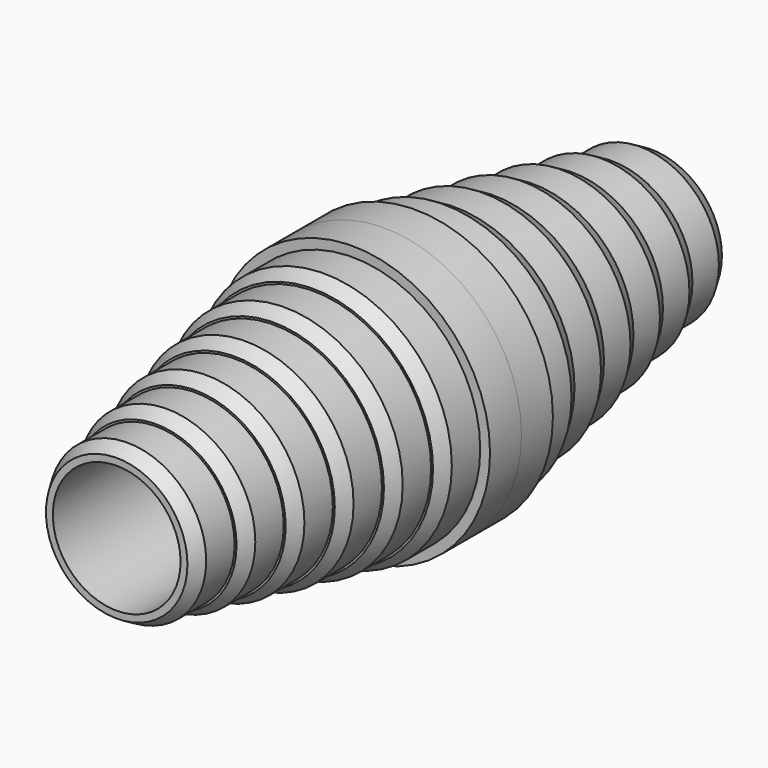
from build123d import *

# Parameters (mm, degrees)
F0_R        = 7
F0_R_2      = 6.5
F0_R_3      = 6
F0_R_4      = 5.5
F0_R_5      = 5
F0_R_6      = 4.5
F0_R_7      = 4
F1_DEPTH    = 2
F2_DEPTH    = 4.5
F3_DEPTH    = 7
F4_DEPTH    = 9.5
F5_DEPTH    = 12
F6_DEPTH    = 14.5
F7_DEPTH    = 17
F8_R        = 3.25
F9_DEPTH    = 17
F10_SIZE2   = 0.692820323
F10_SIZE    = 0.4
F10_2_SIZE2 = 0.692820323
F10_2_SIZE  = 0.4
F10_3_SIZE2 = 0.692820323
F10_3_SIZE  = 0.4
F10_4_SIZE2 = 0.692820323
F10_4_SIZE  = 0.4
F10_5_SIZE2 = 0.692820323
F10_5_SIZE  = 0.4
F10_6_SIZE2 = 0.692820323
F10_6_SIZE  = 0.4


with BuildPart() as f1:
    # F0 (on Front) → F1 (new body)
    with BuildSketch(Plane.XZ):
        Circle(F0_R)
        Circle(F0_R_2, mode=Mode.SUBTRACT)
        Circle(F0_R_2)
        Circle(F0_R_3, mode=Mode.SUBTRACT)
        Circle(F0_R_3)
        Circle(F0_R_4, mode=Mode.SUBTRACT)
        Circle(F0_R_4)
        Circle(F0_R_5, mode=Mode.SUBTRACT)
        Circle(F0_R_5)
        Circle(F0_R_6, mode=Mode.SUBTRACT)
        Circle(F0_R_6)
        Circle(F0_R_7, mode=Mode.SUBTRACT)
        Circle(F0_R_7)
    extrude(amount=F1_DEPTH)

    # F0 (on Front) → F2 (join, through all)
    with BuildSketch(Plane.XZ):
        Circle(F0_R_2)
        Circle(F0_R_3, mode=Mode.SUBTRACT)
        Circle(F0_R_3)
        Circle(F0_R_4, mode=Mode.SUBTRACT)
        Circle(F0_R_4)
        Circle(F0_R_5, mode=Mode.SUBTRACT)
        Circle(F0_R_5)
        Circle(F0_R_6, mode=Mode.SUBTRACT)
        Circle(F0_R_6)
        Circle(F0_R_7, mode=Mode.SUBTRACT)
        Circle(F0_R_7)
    extrude(amount=F2_DEPTH)

    # F0 (on Front) → F3 (join, through all)
    with BuildSketch(Plane.XZ):
        Circle(F0_R_3)
        Circle(F0_R_4, mode=Mode.SUBTRACT)
        Circle(F0_R_4)
        Circle(F0_R_5, mode=Mode.SUBTRACT)
        Circle(F0_R_5)
        Circle(F0_R_6, mode=Mode.SUBTRACT)
        Circle(F0_R_6)
        Circle(F0_R_7, mode=Mode.SUBTRACT)
        Circle(F0_R_7)
    extrude(amount=F3_DEPTH)

    # F0 (on Front) → F4 (join, through all)
    with BuildSketch(Plane.XZ):
        Circle(F0_R_4)
        Circle(F0_R_5, mode=Mode.SUBTRACT)
        Circle(F0_R_5)
        Circle(F0_R_6, mode=Mode.SUBTRACT)
        Circle(F0_R_6)
        Circle(F0_R_7, mode=Mode.SUBTRACT)
        Circle(F0_R_7)
    extrude(amount=F4_DEPTH)

    # F0 (on Front) → F5 (join, through all)
    with BuildSketch(Plane.XZ):
        Circle(F0_R_5)
        Circle(F0_R_6, mode=Mode.SUBTRACT)
        Circle(F0_R_6)
        Circle(F0_R_7, mode=Mode.SUBTRACT)
        Circle(F0_R_7)
    extrude(amount=F5_DEPTH)

    # F0 (on Front) → F6 (join, through all)
    with BuildSketch(Plane.XZ):
        Circle(F0_R_6)
        Circle(F0_R_7, mode=Mode.SUBTRACT)
        Circle(F0_R_7)
    extrude(amount=F6_DEPTH)

    # F0 (on Front) → F7 (join, through all)
    with BuildSketch(Plane.XZ):
        Circle(F0_R_7)
    extrude(amount=F7_DEPTH)

    # F8 (on face) → F9 (cut, through all)
    with BuildSketch(Plane.XZ.offset(17)):
        Circle(F8_R)
    extrude(amount=-F9_DEPTH, mode=Mode.SUBTRACT)

    # F10
    f10_edges = [f1.edges().sort_by_distance(p)[0] for p in [
        (-5, -12, 0),
    ]]
    f10_side = f1.faces().sort_by_distance((-4.858579, -12, 0))[0]
    chamfer(f10_edges, length=F10_SIZE, length2=F10_SIZE2, reference=f10_side)

    # F10#2
    f10_2_edges = [f1.edges().sort_by_distance(p)[0] for p in [
        (-5.5, -9.5, 0),
    ]]
    f10_2_side = f1.faces().sort_by_distance((-5.344437, -9.5, 0))[0]
    chamfer(f10_2_edges, length=F10_2_SIZE, length2=F10_2_SIZE2, reference=f10_2_side)

    # F10#3
    f10_3_edges = [f1.edges().sort_by_distance(p)[0] for p in [
        (-6, -7, 0),
    ]]
    f10_3_side = f1.faces().sort_by_distance((-5.830294, -7, 0))[0]
    chamfer(f10_3_edges, length=F10_3_SIZE, length2=F10_3_SIZE2, reference=f10_3_side)

    # F10#4
    f10_4_edges = [f1.edges().sort_by_distance(p)[0] for p in [
        (-6.5, -4.5, 0),
    ]]
    f10_4_side = f1.faces().sort_by_distance((-6.316152, -4.5, 0))[0]
    chamfer(f10_4_edges, length=F10_4_SIZE, length2=F10_4_SIZE2, reference=f10_4_side)

    # F10#5
    f10_5_edges = [f1.edges().sort_by_distance(p)[0] for p in [
        (-4.5, -14.5, 0),
    ]]
    f10_5_side = f1.faces().sort_by_distance((-4.372721, -14.5, 0))[0]
    chamfer(f10_5_edges, length=F10_5_SIZE, length2=F10_5_SIZE2, reference=f10_5_side)

    # F10#6
    f10_6_edges = [f1.edges().sort_by_distance(p)[0] for p in [
        (-4, -17, 0),
    ]]
    f10_6_side = f1.faces().sort_by_distance((-3.886863, -17, 0))[0]
    chamfer(f10_6_edges, length=F10_6_SIZE, length2=F10_6_SIZE2, reference=f10_6_side)

    # F11: F1 across plane


with BuildPart() as f1_1:
    add(f1.part)
    add(f1.part.mirror(Plane.XZ))


solid = f1_1.part
